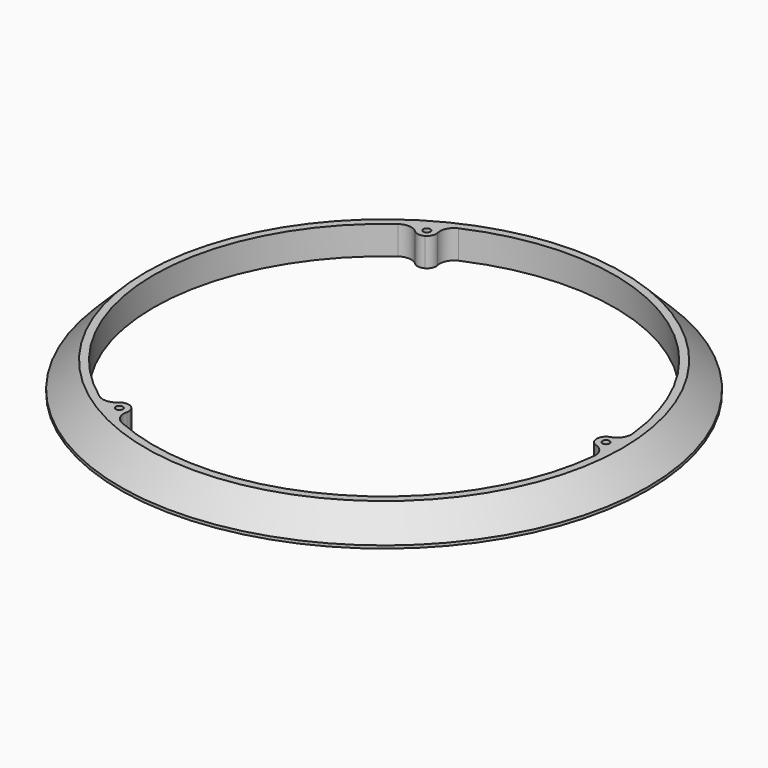
from build123d import *

# Parameters (mm, degrees)
F0_R     = 117.475
F0_R_2   = 94.615
F1_DEPTH = 12.7
F2_SIZE2 = 11.43
F2_SIZE  = 11.43
F3_R     = 1.5875
F4_DEPTH = 25.4
F5_DEPTH = 25.4
F6_R     = 6.35


with BuildPart() as f1:
    # F0 (on Top) → F1 (new body)
    with BuildSketch(Plane.XY):
        Circle(F0_R)
        Circle(F0_R_2, mode=Mode.SUBTRACT)
    extrude(amount=F1_DEPTH)

    # F2
    f2_edges = [f1.edges().sort_by_distance(p)[0] for p in [
        (-117.475, 0, 12.7),
    ]]
    chamfer(f2_edges, length=F2_SIZE, length2=F2_SIZE2)

    # F3 (on face) → F4 (cut)
    with BuildSketch(Plane.XY.offset(12.7)):
        with Locations((-49.38395, -85.5355104784)):
            Circle(F3_R)
        with Locations((98.7679, 0)):
            Circle(F3_R)
        with Locations((-49.38395, 85.5355104784)):
            Circle(F3_R)
    extrude(amount=-F4_DEPTH, mode=Mode.SUBTRACT)

    # F3 (on face) → F5 (cut)
    with BuildSketch(Plane.XY.offset(12.7)):
        with BuildLine():
            ThreePointArc((-47.3074999758, -81.938993593), (-94.615, -6.48e-08), (-47.307500088, 81.9389935282))
            ThreePointArc((-47.307500088, 81.9389935282), (-50.5319062243, 81.5444235442), (-53.0539246015, 83.5918374518))
            Line((-53.0539246015, 83.5918374518), (-54.8410720868, 86.687267697))
            ThreePointArc((-54.8410720868, 86.687267697), (-102.5778999906, 0.0013872619), (-54.8434167812, -86.6857843258))
            Line((-54.8434167812, -86.6857843258), (-52.9804668994, -83.4590604784))
            ThreePointArc((-52.9804668994, -83.4590604784), (-50.4587995989, -81.5241171108), (-47.3074999758, -81.938993593))
        make_face()
        with BuildLine():
            Line((98.9196170831, 4.1501277494), (102.4939120537, 4.1501277494))
            ThreePointArc((102.4939120537, 4.1501277494), (51.2901513993, 88.8343736278), (-47.6503829825, 90.8386843258))
            Line((-47.6503829825, 90.8386843258), (-45.7874331006, 87.6119604784))
            ThreePointArc((-45.7874331006, 87.6119604784), (-45.3725566492, 84.4606608169), (-47.307500088, 81.9389935282))
            ThreePointArc((-47.307500088, 81.9389935282), (47.307499956, 81.9389936045), (94.615, 0))
            ThreePointArc((94.615, 0), (95.8854954018, 2.9897026846), (98.9196170831, 4.1501277494))
        make_face()
        with BuildLine():
            ThreePointArc((98.7679, -4.1529), (95.8313562484, -2.9365437516), (94.615, 0))
            ThreePointArc((94.615, 0), (47.3075000121, -81.9389935721), (-47.3074999758, -81.938993593))
            ThreePointArc((-47.3074999758, -81.938993593), (-45.3535892229, -84.5341262282), (-45.8656924816, -87.7419652013))
            Line((-45.8656924816, -87.7419652013), (-47.6528399669, -90.8373954465))
            ThreePointArc((-47.6528399669, -90.8373954465), (51.2877485913, -88.8357608897), (102.4937997637, -4.1529))
            Line((102.4937997637, -4.1529), (98.7679, -4.1529))
        make_face()
    extrude(amount=-F5_DEPTH, mode=Mode.SUBTRACT)

    # F6
    f6_edges = [f1.edges().sort_by_distance(p)[0] for p in [
        (-54.841072, 86.687268, 6.35),
        (-47.650383, 90.838684, 6.35),
        (102.4938, -4.1529, 6.35),
        (102.493912, 4.150128, 6.35),
        (-54.843417, -86.685784, 6.35),
        (-47.65284, -90.837395, 6.35),
    ]]
    fillet(f6_edges, radius=F6_R)


solid = f1.part
